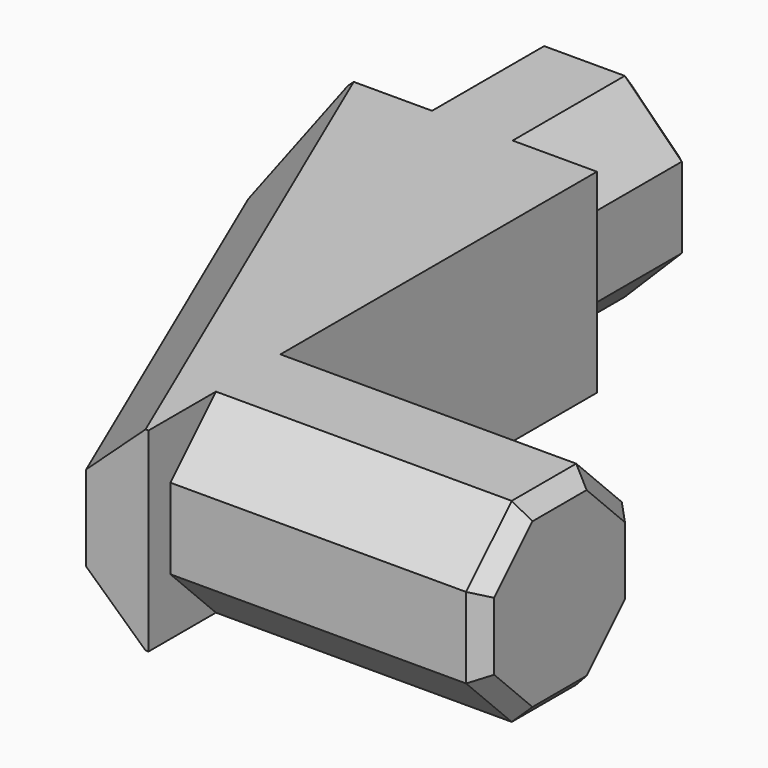
from build123d import *

# Parameters (mm, degrees)
PAD_DEPTH       = 12.5
PAD001_DEPTH    = 10
PAD002_DEPTH    = 20
CHAMFER_SIZE    = 1
CHAMFER001_SIZE = 1
CHAMFER002_SIZE = 3.5


with BuildPart() as part:
    # Sketch → Pad (new body)
    with BuildSketch(Plane.XY):
        Polygon((0, 0), (16, 0), (16, -36), (12, -36), (0, -8), align=None)
    extrude(amount=PAD_DEPTH)

    # Sketch001 (on Face1 of Pad) → Pad001 (join)
    with BuildSketch(Plane(origin=(0, 0, 0), x_dir=(-1, 0, 0), z_dir=(0, 1, 0))):
        Polygon((-5.411165, 0), (-1.75, 3.661165), (-1.75, 8.838835), (-5.411165, 12.5), (-10.588835, 12.5), (-14.25, 8.838835), (-14.25, 3.661165), (-10.588835, 0), align=None)
    extrude(amount=PAD001_DEPTH)

    # Sketch002 (on Face12 of Pad001) → Pad002 (join)
    with BuildSketch(Plane.YZ.offset(16)):
        Polygon((-25.411165, 0), (-21.75, 3.661165), (-21.75, 8.838835), (-25.411165, 12.5), (-30.588835, 12.5), (-34.25, 8.838835), (-34.25, 3.661165), (-30.588835, 0), align=None)
    extrude(amount=PAD002_DEPTH)

    # Chamfer
    chamfer_edges = [part.edges().sort_by_distance(p)[0] for p in [
        (3.580583, 10, 1.830583),
        (1.75, 10, 6.25),
        (3.580583, 10, 10.669417),
        (8, 10, 12.5),
        (12.419417, 10, 10.669417),
        (14.25, 10, 6.25),
        (12.419417, 10, 1.830583),
        (8, 10, 0),
    ]]
    chamfer(chamfer_edges, length=CHAMFER_SIZE)

    # Chamfer001
    chamfer001_edges = [part.edges().sort_by_distance(p)[0] for p in [
        (36, -23.580583, 1.830583),
        (36, -21.75, 6.25),
        (36, -23.580583, 10.669417),
        (36, -28, 12.5),
        (36, -32.419417, 10.669417),
        (36, -34.25, 6.25),
        (36, -32.419417, 1.830583),
        (36, -28, 0),
    ]]
    chamfer(chamfer001_edges, length=CHAMFER001_SIZE)

    # Chamfer002
    chamfer002_edges = [part.edges().sort_by_distance(p)[0] for p in [
        (6, -22, 0),
        (6, -22, 12.5),
    ]]
    chamfer(chamfer002_edges, length=CHAMFER002_SIZE)


solid = part.part
